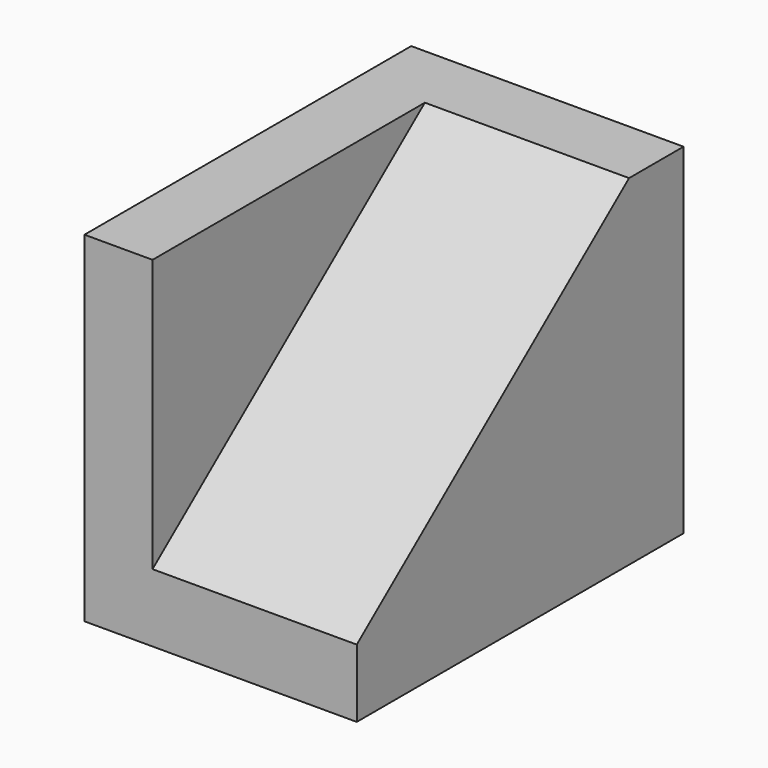
from build123d import *

# Parameters (mm, degrees)
F1_DEPTH = 25.4
F3_DEPTH = 19.05


with BuildPart() as f1:
    # F0 (on Right) → F1 (new body)
    with BuildSketch(Plane.YZ):
        Polygon((0, 31.75), (0, 0), (38.1, 0), (38.1, 31.75), (31.75, 31.75), align=None)
    extrude(amount=F1_DEPTH)

    # F2 (on face) → F3 (cut)
    with BuildSketch(Plane.YZ.offset(25.4)):
        Polygon((0, 6.35), (31.75, 31.75), (0, 31.75), align=None)
    extrude(amount=-F3_DEPTH, mode=Mode.SUBTRACT)


solid = f1.part
